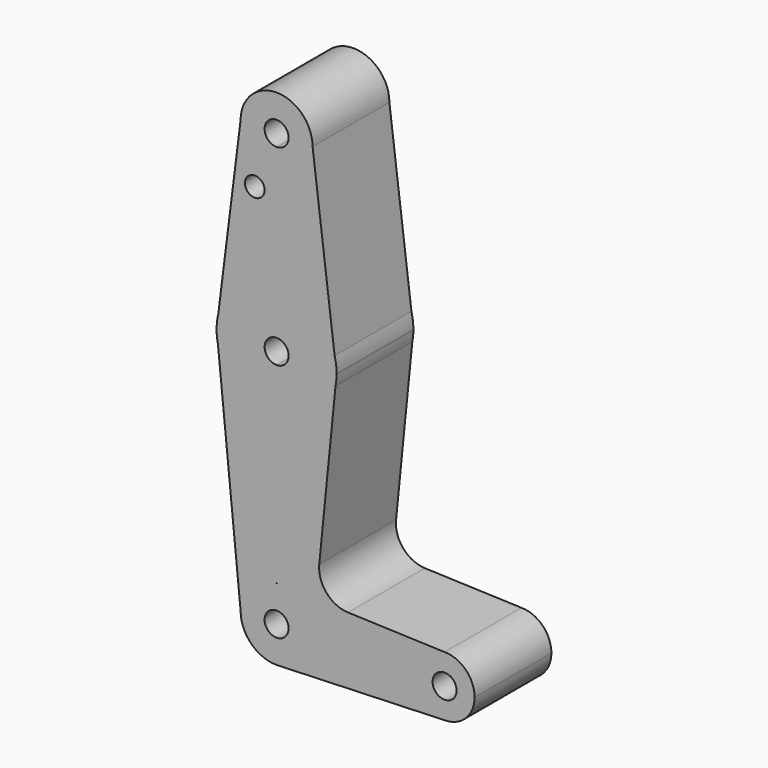
from build123d import *

# Parameters (mm, degrees)
F0_R     = 2.6007380418
F1_DEPTH = 25.4


with BuildPart() as f1:
    # F0 (on Front) → F1 (new body)
    with BuildSketch(Plane.XZ):
        with BuildLine():
            Line((-15.8738293827, -50.6072158518), (-15.4295331686, -47.0656819632))
            ThreePointArc((-15.4295331686, -47.0656819632), (-15.751531428, -48.8239224018), (-15.8738293827, -50.6072158518))
        make_face()
        with BuildLine():
            Line((-15.5233638186, -54.1227700425), (-15.8738293827, -50.6072158518))
            ThreePointArc((-15.8738293827, -50.6072158518), (-15.7966995144, -52.3747728257), (-15.5233638186, -54.1227700425))
        make_face()
        with BuildLine():
            ThreePointArc((15.5879837413, -53.8050603789), (15.7958662647, -52.38310895), (15.874308373, -50.9481846156))
            Line((15.874308373, -50.9481846156), (15.5879837413, -53.8050603789))
        make_face()
        with BuildLine():
            ThreePointArc((15.875, -50.8), (15.7438070308, -48.7632955104), (15.352396513, -46.7602541779))
            Line((15.352396513, -46.7602541779), (15.874308373, -50.9481846156))
            ThreePointArc((15.874308373, -50.9481846156), (15.8748270923, -50.8740931148), (15.875, -50.8))
        make_face()
        with BuildLine():
            Line((0.6778573649, -123.8008491406), (0, -123.825))
            ThreePointArc((0, -123.825), (0.3391437273, -123.8189603703), (0.6778573649, -123.8008491406))
        make_face()
        with BuildLine():
            ThreePointArc((9.525, 0), (6.7351920908, -6.7351920908), (0, -9.525))
            Line((0, -9.525), (0, -34.925))
            ThreePointArc((0, -34.925), (9.6923851573, -38.227279731), (15.352396513, -46.7602541779))
            Line((15.352396513, -46.7602541779), (9.525, 0))
        make_face()
        with BuildLine():
            Line((0, -104.775), (0, -66.675))
            ThreePointArc((0, -66.675), (-9.9816494272, -63.14432257), (-15.5233638186, -54.1227700425))
            Line((-15.5233638186, -54.1227700425), (-9.5249974039, -114.2929674737))
            ThreePointArc((-9.5249974039, -114.2929674737), (-6.7327052582, -107.5623219944), (0, -104.775))
        make_face()
        with BuildLine():
            Line((36.5125, -114.3), (9.525, -114.3))
            ThreePointArc((9.525, -114.3), (6.9707322571, -120.7911105983), (0.6778573649, -123.8008491406))
            Line((0.6778573649, -123.8008491406), (44.5940537667, -122.236192712))
            ThreePointArc((44.5940537667, -122.236192712), (38.888503822, -119.9633617677), (36.5125, -114.3))
        make_face()
        with BuildLine():
            ThreePointArc((52.3875, -114.3), (50.0626600757, -108.6873399243), (44.45, -106.3625))
            ThreePointArc((44.45, -106.3625), (38.8373399243, -108.6873399243), (36.5125, -114.3))
            ThreePointArc((36.5125, -114.3), (38.888503822, -119.9633617677), (44.5940537667, -122.236192712))
            ThreePointArc((44.5940537667, -122.236192712), (50.1133617677, -119.861496178), (52.3875, -114.3))
        make_face()
        with BuildLine():
            ThreePointArc((47.625, -114.3), (44.45, -117.475), (41.275, -114.3))
            ThreePointArc((41.275, -114.3), (44.45, -111.125), (47.625, -114.3))
        make_face(mode=Mode.SUBTRACT)
        with BuildLine():
            ThreePointArc((-9.525, 0), (-6.7351920908, -6.7351920908), (0, -9.525))
            ThreePointArc((0, -9.525), (6.7351920908, -6.7351920908), (9.525, 0))
            ThreePointArc((9.525, 0), (0, 9.525), (-9.525, 0))
        make_face()
        with BuildLine():
            ThreePointArc((3.175, 0), (2.2450640303, -2.2450640303), (0, -3.175))
            ThreePointArc((0, -3.175), (-2.2450640303, 2.2450640303), (3.175, 0))
        make_face(mode=Mode.SUBTRACT)
        with BuildLine():
            Line((0, -111.125), (0, -104.775))
            ThreePointArc((0, -104.775), (-6.7327052582, -107.5623219944), (-9.5249974039, -114.2929674737))
            ThreePointArc((-9.5249974039, -114.2929674737), (-6.7376780056, -121.0327052582), (0, -123.825))
            Line((0, -123.825), (0.6778573649, -123.8008491406))
            ThreePointArc((0.6778573649, -123.8008491406), (6.9707322571, -120.7911105983), (9.525, -114.3))
            Line((9.525, -114.3), (3.175, -114.3))
            ThreePointArc((3.175, -114.3), (-2.2450640303, -116.5450640303), (0, -111.125))
        make_face()
        with BuildLine():
            ThreePointArc((15.5879837413, -53.8050603789), (10.1071828787, -63.0417514783), (0, -66.675))
            Line((0, -66.675), (0, -104.775))
            ThreePointArc((0, -104.775), (0.3399618281, -104.7810688123), (0.6794904459, -104.7992675159))
            ThreePointArc((0.6794904459, -104.7992675159), (6.9712901065, -107.8094885216), (9.525, -114.3))
            Line((9.525, -114.3), (36.5125, -114.3))
            ThreePointArc((36.5125, -114.3), (38.8373399243, -108.6873399243), (44.45, -106.3625))
            Line((44.45, -106.3625), (18.914480682, -105.4505171672))
            ThreePointArc((18.914480682, -105.4505171672), (13.2086857771, -102.7332860354), (11.2876656625, -96.7125616404))
            Line((11.2876656625, -96.7125616404), (15.5879837413, -53.8050603789))
        make_face()
        with BuildLine():
            Line((0, -34.925), (0, -9.525))
            ThreePointArc((0, -9.525), (-6.7351920908, -6.7351920908), (-9.525, 0))
            Line((-9.525, 0), (-15.4295331686, -47.0656819632))
            ThreePointArc((-15.4295331686, -47.0656819632), (-9.8166523359, -38.3240646877), (0, -34.925))
        make_face()
        with Locations((-5.7757380418, -14.2748)):
            Circle(F0_R, mode=Mode.SUBTRACT)
        with BuildLine():
            Line((0, -47.625), (0, -34.925))
            ThreePointArc((0, -34.925), (-9.8166523359, -38.3240646877), (-15.4295331686, -47.0656819632))
            Line((-15.4295331686, -47.0656819632), (-15.8738293827, -50.6072158518))
            Line((-15.8738293827, -50.6072158518), (-15.5233638186, -54.1227700425))
            ThreePointArc((-15.5233638186, -54.1227700425), (-9.9816494272, -63.14432257), (0, -66.675))
            Line((0, -66.675), (0, -53.975))
            ThreePointArc((0, -53.975), (-3.175, -50.8), (0, -47.625))
        make_face()
        with BuildLine():
            ThreePointArc((15.352396513, -46.7602541779), (9.6923851573, -38.227279731), (0, -34.925))
            Line((0, -34.925), (0, -47.625))
            ThreePointArc((0, -47.625), (2.2450640303, -48.5549359697), (3.175, -50.8))
            ThreePointArc((3.175, -50.8), (2.2450640303, -53.0450640303), (0, -53.975))
            Line((0, -53.975), (0, -66.675))
            ThreePointArc((0, -66.675), (10.1071828787, -63.0417514783), (15.5879837413, -53.8050603789))
            Line((15.5879837413, -53.8050603789), (15.874308373, -50.9481846156))
            Line((15.874308373, -50.9481846156), (15.352396513, -46.7602541779))
        make_face()
        with BuildLine():
            Line((0.6794904459, -104.7992675159), (0, -104.775))
            Line((0, -104.775), (0, -111.125))
            ThreePointArc((0, -111.125), (2.2450640303, -112.0549359697), (3.175, -114.3))
            Line((3.175, -114.3), (9.525, -114.3))
            ThreePointArc((9.525, -114.3), (6.9712901065, -107.8094885216), (0.6794904459, -104.7992675159))
        make_face()
    extrude(amount=F1_DEPTH)


solid = f1.part
